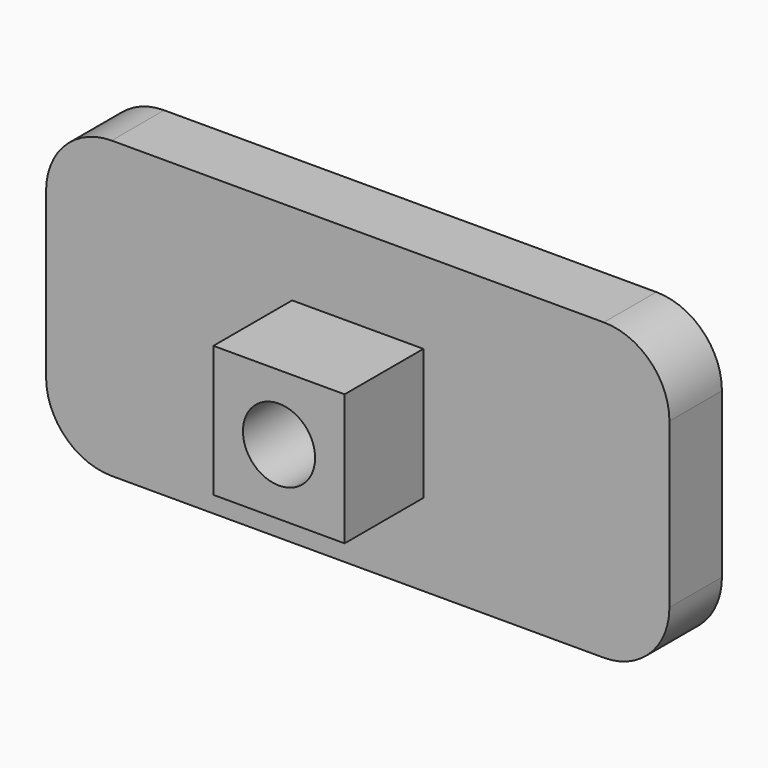
from build123d import *

# Parameters (mm, degrees)
F0_W     = 4
F0_H     = 4
F1_DEPTH = 2
F0_R     = 1.1
F2_DEPTH = 5


with BuildPart() as f1:
    # F0 (on Front) → F1 (new body)
    with BuildSketch(Plane.XZ):
        with BuildLine():
            Line((-7.5, -4.5), (7.5, -4.5))
            ThreePointArc((7.5, -4.5), (8.914214, -3.914214), (9.5, -2.5))
            Line((9.5, -2.5), (9.5, 2.5))
            ThreePointArc((9.5, 2.5), (8.914214, 3.914214), (7.5, 4.5))
            Line((7.5, 4.5), (-7.5, 4.5))
            ThreePointArc((-7.5, 4.5), (-8.914214, 3.914214), (-9.5, 2.5))
            Line((-9.5, 2.5), (-9.5, -2.5))
            ThreePointArc((-9.5, -2.5), (-8.914214, -3.914214), (-7.5, -4.5))
        make_face()
        Rectangle(F0_W, F0_H, mode=Mode.SUBTRACT)
        with BuildLine():
            Line((-7.5, -4.5), (7.5, -4.5))
            ThreePointArc((7.5, -4.5), (8.914214, -3.914214), (9.5, -2.5))
            Line((9.5, -2.5), (9.5, 2.5))
            ThreePointArc((9.5, 2.5), (8.914214, 3.914214), (7.5, 4.5))
            Line((7.5, 4.5), (-7.5, 4.5))
            ThreePointArc((-7.5, 4.5), (-8.914214, 3.914214), (-9.5, 2.5))
            Line((-9.5, 2.5), (-9.5, -2.5))
            ThreePointArc((-9.5, -2.5), (-8.914214, -3.914214), (-7.5, -4.5))
        make_face()
        Rectangle(F0_W, F0_H, mode=Mode.SUBTRACT)
    extrude(amount=F1_DEPTH)

    # F0 (on Front) → F2 (join)
    with BuildSketch(Plane.XZ):
        Rectangle(F0_W, F0_H)
        Circle(F0_R, mode=Mode.SUBTRACT)
    extrude(amount=F2_DEPTH)


solid = f1.part
